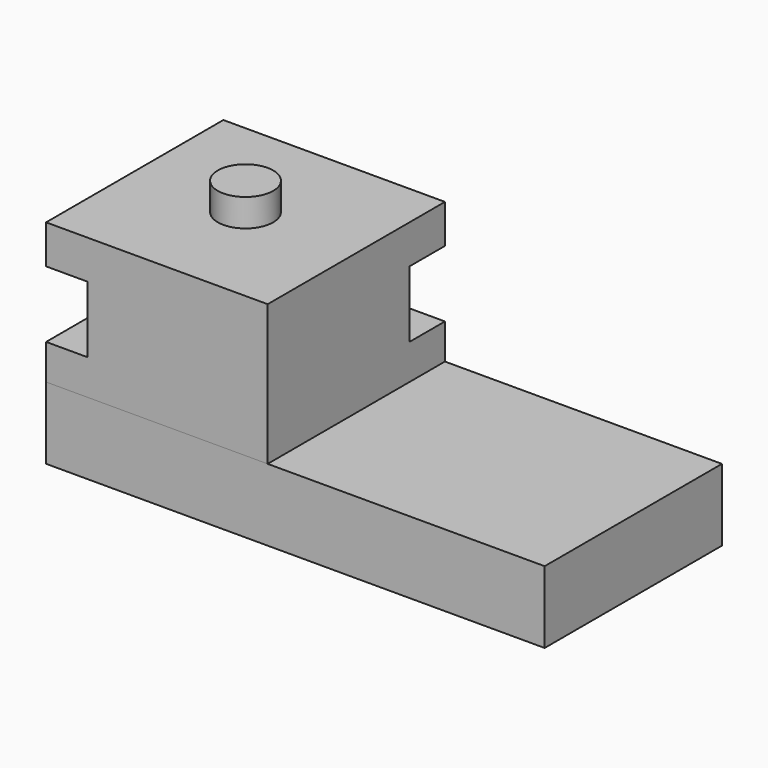
from build123d import *

# Parameters (mm, degrees)
SKETCH_W     = 180
SKETCH_H     = 80
PAD_DEPTH    = 26
SKETCH001_W  = 80
SKETCH001_H  = 80
PAD001_DEPTH = 12.75
SKETCH002_W  = 65
SKETCH002_H  = 64
PAD002_DEPTH = 24
SKETCH003_W  = 80
SKETCH003_H  = 80
PAD003_DEPTH = 14
SKETCH004_R  = 10
PAD004_DEPTH = 10


with BuildPart() as base:
    # Sketch → Pad (new body)
    with BuildSketch(Plane.XY):
        with Locations((90, 0)):
            Rectangle(SKETCH_W, SKETCH_H)
    extrude(amount=PAD_DEPTH)


with BuildPart() as toolholder:
    # Sketch001 → Pad001 (new body)
    with BuildSketch(Plane.XY.offset(26)):
        with Locations((40, 0)):
            Rectangle(SKETCH001_W, SKETCH001_H)
    extrude(amount=PAD001_DEPTH)

    # Sketch002 (on Face6 of Pad001) → Pad002 (join)
    with BuildSketch(Plane.XY.offset(38.75)):
        with Locations((47.5, -8)):
            Rectangle(SKETCH002_W, SKETCH002_H)
    extrude(amount=PAD002_DEPTH)

    # Sketch003 (on Face11 of Pad002) → Pad003 (join)
    with BuildSketch(Plane.XY.offset(62.75)):
        with Locations((40, 0)):
            Rectangle(SKETCH003_W, SKETCH003_H)
    extrude(amount=PAD003_DEPTH)

    # Sketch004 (on Face15 of Pad003) → Pad004 (join)
    with BuildSketch(Plane.XY.offset(76.75)):
        with Locations((40, 0)):
            Circle(SKETCH004_R)
    extrude(amount=PAD004_DEPTH)


solid = Compound([base.part, toolholder.part])
